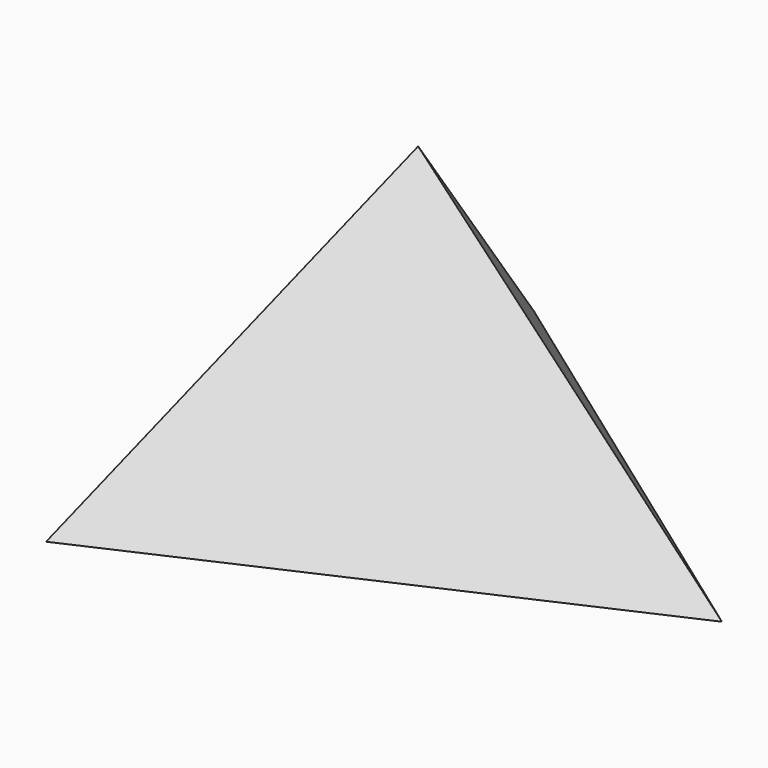
from build123d import *


with BuildPart() as f3:
    # F0 (on Top) → F3 section 0
    with BuildSketch(Plane.XY, mode=Mode.PRIVATE) as f3_s0:
        Polygon((115.440783, -11.572518), (-47.698297, 105.76091), (-67.742486, -94.188391), align=None)
    loft([f3_s0.sketch, Vertex(-5.865816, 0, 110.236)])


solid = f3.part
